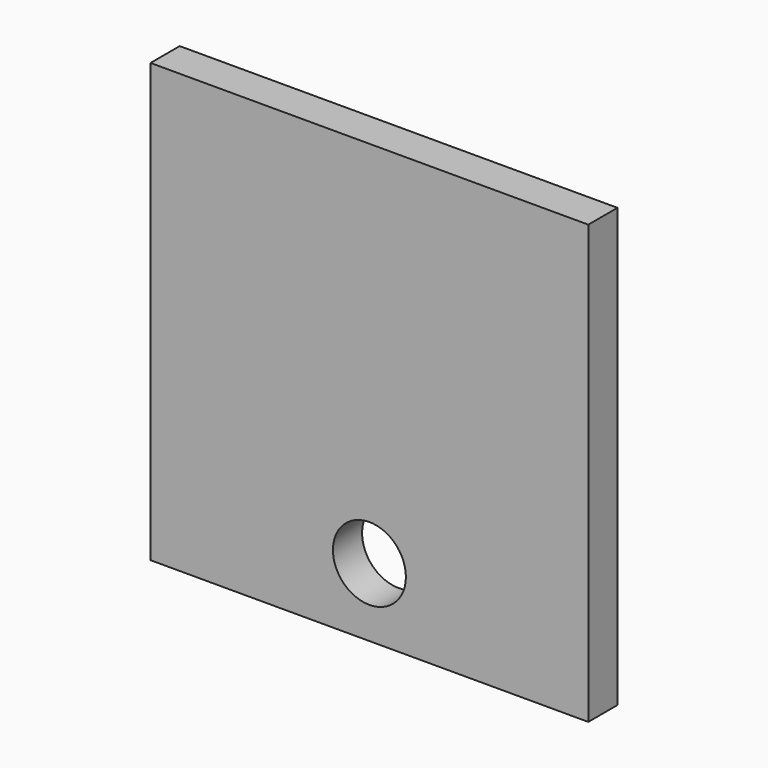
from build123d import *

# Parameters (mm, degrees)
F0_W     = 76.2
F0_H     = 76.2
F1_DEPTH = 3.175
F2_R     = 6.35
F3_DEPTH = 6.35


with BuildPart() as f1:
    # F0 (on Front) → F1 (new body, symmetric)
    with BuildSketch(Plane.XZ):
        with Locations((0, 38.1)):
            Rectangle(F0_W, F0_H)
    extrude(amount=F1_DEPTH, both=True)

    # F2 (on face) → F3 (cut)
    with BuildSketch(Plane.XZ.offset(3.175)):
        with Locations((0, 11.8903209027)):
            Circle(F2_R)
    extrude(amount=-F3_DEPTH, mode=Mode.SUBTRACT)


solid = f1.part
